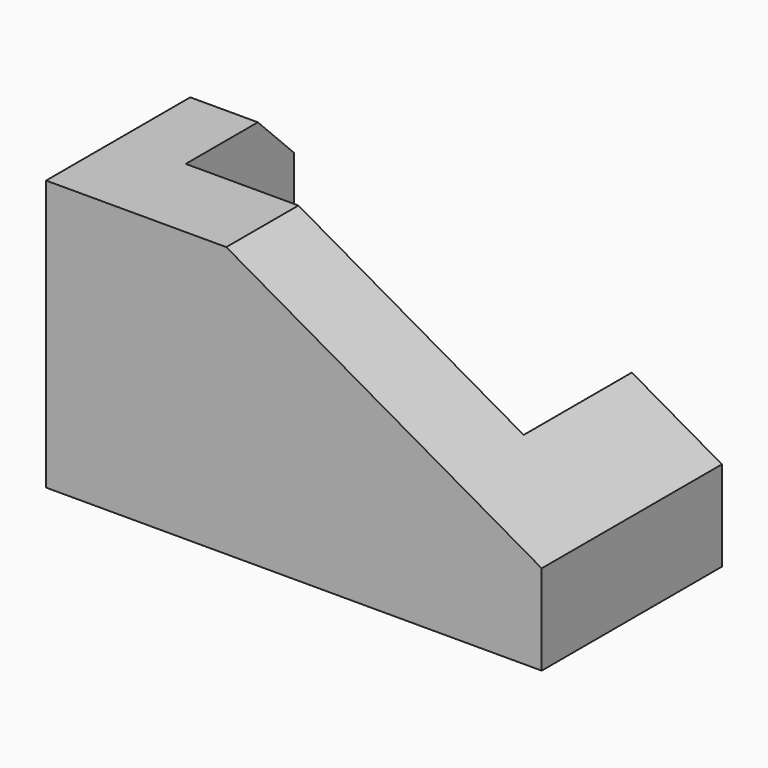
from build123d import *

# Parameters (mm, degrees)
F1_DEPTH = 50
F2_W     = 75
F2_H     = 61.672469
F3_DEPTH = 30
F4_DEPTH = 30
F5_DEPTH = 30
F6_SIZE  = 10


with BuildPart() as f1:
    # F0 (on Front) → F1 (new body)
    with BuildSketch(Plane.XZ):
        Polygon((0, 60), (0, 0), (110, 0), (110, 20), (40, 60), align=None)
    extrude(amount=F1_DEPTH)

    # F2 (on Front) → F3 (cut)
    with BuildSketch(Plane.XZ):
        with Locations((52.5, 29.879423)):
            Rectangle(F2_W, F2_H)
    extrude(amount=-F3_DEPTH, mode=Mode.SUBTRACT)

    # F2 (on Front) → F4 (cut)
    with BuildSketch(Plane.XZ):
        with Locations((52.5, 29.879423)):
            Rectangle(F2_W, F2_H)
    extrude(amount=-F4_DEPTH, mode=Mode.SUBTRACT)

    # F2 (on Front) → F5 (cut)
    with BuildSketch(Plane.XZ):
        with Locations((52.5, 29.879423)):
            Rectangle(F2_W, F2_H)
    extrude(amount=F5_DEPTH, mode=Mode.SUBTRACT)

    # F6
    f6_edges = [f1.edges().sort_by_distance(p)[0] for p in [
        (7.5, 0, 60),
    ]]
    chamfer(f6_edges, length=F6_SIZE)


solid = f1.part
